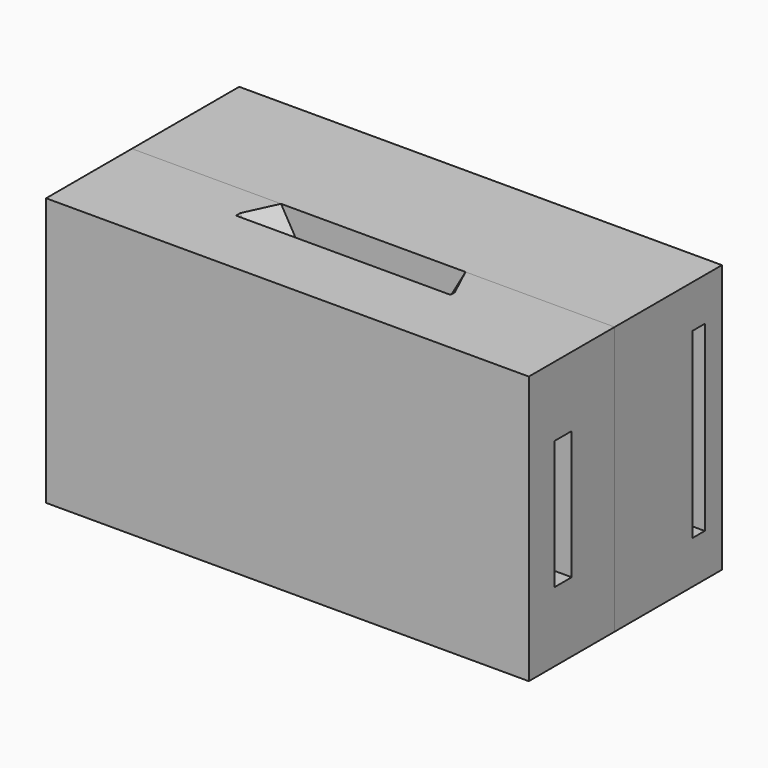
from build123d import *

# Parameters (mm, degrees)
F0_W      = 31.75
F0_H      = 63.5
F1_DEPTH  = 114.3
F2_DEPTH  = 114.3
F5_W      = 3.556
F5_H      = 43.18
F6_DEPTH  = 38.1
F7_START  = 76.2
F7_DEPTH  = 38.1
F11_R     = 8.255
F12_R     = 8.255
F13_DEPTH = 6.35
F15_DEPTH = 4.2672
F16_DEPTH = 25.4
F17_START = 8.89
F17_DEPTH = 16.51
F20_START = -7.62
F19_W     = 114.3
F19_H     = 30.48
F20_DEPTH = 5.08


with BuildPart() as f1:
    # F0 (on Right) → F1 (new body)
    with BuildSketch(Plane.YZ):
        with Locations((20.6751725854, 0)):
            Rectangle(F0_W, F0_H)
    extrude(amount=F1_DEPTH)

    # F5 (on face) → F6 (cut)
    with BuildSketch(Plane.YZ):
        with Locations((29.6921725854, 0)):
            Rectangle(F5_W, F5_H)
    extrude(amount=F6_DEPTH, mode=Mode.SUBTRACT)

    # F5 (on face) → F7 (cut)
    with BuildSketch(Plane.YZ.offset(F7_START)):
        with Locations((29.6921725854, 0)):
            Rectangle(F5_W, F5_H)
    extrude(amount=F7_DEPTH, mode=Mode.SUBTRACT)

    # F11 (on face) + F12 (on face) → F13 (cut)
    with BuildSketch(Plane.XZ.offset(-4.8001725854)):
        with Locations((25.4, 0)):
            Circle(F11_R)
    with BuildSketch(Plane.XZ.offset(-4.8001725854)):
        with Locations((88.9, 0)):
            Circle(F12_R)
    extrude(amount=-F13_DEPTH, mode=Mode.SUBTRACT)

    # F14 (on face) → F15 (cut)
    with BuildSketch(Plane(origin=(0, 36.5501725854, 0), x_dir=(-1, 0, 0), z_dir=(0, 1, 0))):
        Polygon((-83.4644, -3.1382451232), (-83.4644, 3.1382451232), (-88.9, 6.2764902464), (-94.3356, 3.1382451232), (-94.3356, -3.1382451232), (-88.9, -6.2764902464), align=None)
        Polygon((-30.8356, 3.1382451232), (-30.8356, -3.1382451232), (-25.4, -6.2764902464), (-19.9644, -3.1382451232), (-19.9644, 3.1382451232), (-25.4, 6.2764902464), align=None)
    extrude(amount=-F15_DEPTH, mode=Mode.SUBTRACT)


with BuildPart() as f2:
    # F0 (on Right) → F2 (new body)
    with BuildSketch(Plane.YZ):
        Polygon((-26.9498274146, -19.685), (-26.9498274146, -31.75), (4.8001725854, -31.75), (4.8001725854, 31.75), (-26.9498274146, 31.75), (-26.9498274146, 19.685), (-23.3938274146, 19.685), (-7.8998274146, 8.89), (-7.8998274146, -8.89), (-23.3938274146, -19.685), align=None)
        Polygon((-26.9498274146, 19.685), (-26.9498274146, -19.685), (-23.3938274146, -19.685), (-7.8998274146, -8.89), (-7.8998274146, 8.89), (-23.3938274146, 19.685), align=None)
    extrude(amount=F2_DEPTH)


with BuildPart() as f9:
    # F9: sweep along a path in F4
    with BuildLine(Plane.XZ.offset(-4.8001725854)) as f9_path:
        Line((49.53, -31.75), (49.53, 0.9541366414))
        Line((49.53, 0.9541366414), (31.75, 31.75))
    # F8 (on face) → F9 (sweep)
    with BuildSketch(Plane.XY.offset(31.75)):
        Polygon((35.306, 4.8001725854), (31.75, 4.8001725854), (31.75, -2.8198274146), align=None)
    sweep(path=f9_path.line, transition=Transition.RIGHT)


with BuildPart() as f10:
    # F10: sweep along a path in F4
    with BuildLine(Plane.XZ.offset(-4.8001725854)) as f10_path:
        Line((82.55, 31.75), (64.77, 0.9541366414))
        Line((64.77, 0.9541366414), (64.77, -31.75))
    # F8 (on face) → F10 (sweep)
    with BuildSketch(Plane.XY.offset(31.75)):
        Polygon((82.55, -2.8198274146), (82.55, 4.8001725854), (78.994, 4.8001725854), align=None)
    sweep(path=f10_path.line, transition=Transition.RIGHT)


with BuildPart() as f16:
    # F4 (on face) → F16 (new body)
    with BuildSketch(Plane.XZ.offset(-4.8001725854)):
        Polygon((49.53, 0.9541366414), (31.75, 31.75), (0, 31.75), (0, -31.75), (49.53, -31.75), align=None)
    extrude(amount=F16_DEPTH)


with BuildPart() as f16b:
    # F4 (on face) → F16, piece 2 (new body)
    with BuildSketch(Plane.XZ.offset(-4.8001725854)):
        Polygon((114.3, 31.75), (82.55, 31.75), (64.77, 0.9541366414), (64.77, -31.75), (114.3, -31.75), align=None)
    extrude(amount=F16_DEPTH)


with BuildPart() as f17:
    # F4 (on face) → F17 (new body)
    with BuildSketch(Plane.XZ.offset(-4.8001725854).offset(F17_START)):
        Polygon((57.15, -31.75), (57.15, 31.75), (31.75, 31.75), (49.53, 0.9541366414), (49.53, -31.75), align=None)
        Polygon((82.55, 31.75), (57.15, 31.75), (57.15, -31.75), (64.77, -31.75), (64.77, 0.9541366414), align=None)
    extrude(amount=F17_DEPTH)


with BuildPart() as f9_1:
    add(f9.part)

    # F18: union F10, F16, F16b, F17
    add(f10.part)
    add(f16.part)
    add(f16b.part)
    add(f17.part)

    # F19 (on face) → F20 (cut)
    with BuildSketch(Plane.XZ.offset(20.5998274146).offset(F20_START)):
        with Locations((57.15, 0)):
            Rectangle(F19_W, F19_H)
    extrude(amount=-F20_DEPTH, mode=Mode.SUBTRACT)


solid = Compound([f1.part, f9_1.part])
